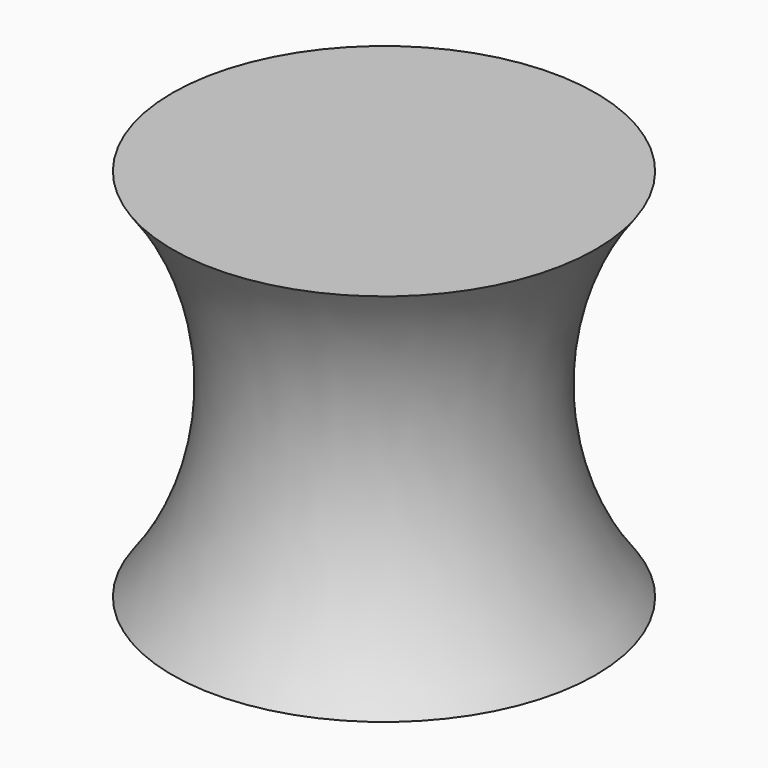
from build123d import *


with BuildPart() as f3:
    # F2 (on Front) → F3 (revolve)
    with BuildSketch(Plane.XZ):
        with BuildLine():
            ThreePointArc((-45.795616, 81.033648), (-32.025136, 40.516824), (-45.795616, 0))
            Line((-45.795616, 0), (0, 0))
            Line((0, 0), (0, 81.033648))
            Line((0, 81.033648), (-45.795616, 81.033648))
        make_face()
    revolve(axis=Axis((0, 0, 40.516824), (0, 0, 1)))


solid = f3.part
